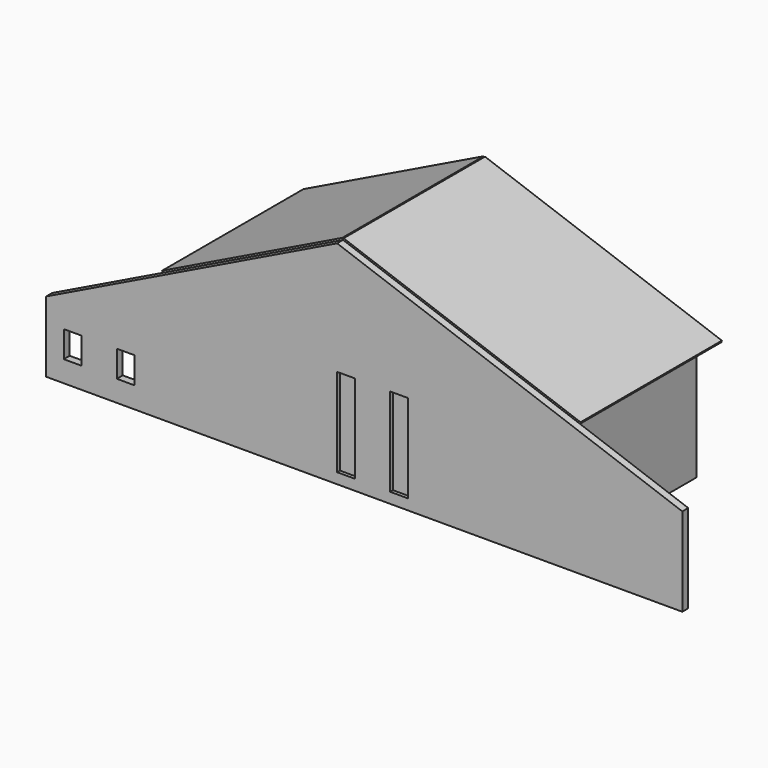
from build123d import *

# Parameters (mm, degrees)
F0_W     = 500
F0_H     = 750
F1_DEPTH = 210
F2_W     = 500
F2_H     = 2500
F3_DEPTH = 100
F4_W     = 210
F4_H     = 3851.0160439499
F5_DEPTH = 5000
F7_DEPTH = 50
F9_DEPTH = 50


with BuildPart() as f1:
    # F0 (on Front) → F1 (new body)
    with BuildSketch(Plane.XZ):
        Polygon((-8233.5140852987, 0), (0, 0), (9766.4859147013, 0), (9766.4859147013, 2500), (0, 6000), (-5203.5374641418, 3472.0211029053), (-8233.5140852987, 2000), align=None)
        with Locations((-7483.5140852987, 975)):
            Rectangle(F0_W, F0_H, mode=Mode.SUBTRACT)
        with Locations((-5983.5140852987, 975)):
            Rectangle(F0_W, F0_H, mode=Mode.SUBTRACT)
    extrude(amount=F1_DEPTH)

    # F2 (on face) → F3 (cut)
    with BuildSketch(Plane.XZ.offset(210)):
        with Locations((250, 1550)):
            Rectangle(F2_W, F2_H)
        with Locations((1750, 1550)):
            Rectangle(F2_W, F2_H)
    extrude(amount=-F3_DEPTH, mode=Mode.SUBTRACT)

    # F4 (on face) → F5 (join)
    with BuildSketch(Plane(origin=(0, 0, 0), x_dir=(-1, 0, 0), z_dir=(0, 1, 0))):
        with Locations((4318.4224178049, 1925.5080219749)):
            Rectangle(F4_W, F4_H)
        with Locations((-5891.5775821951, 1925.5080219749)):
            Rectangle(F4_W, F4_H)
    extrude(amount=F5_DEPTH)


with BuildPart() as f7:
    # F6 (on face) → F7 (new body)
    with BuildSketch(Plane(origin=(-2358.3071897462, 0, 4854.2888660592), x_dir=(0.8994710359, 0, 0.4369803836), z_dir=(-0.4369803836, 0, 0.8994710359))):
        Polygon((-2295.9218760104, 0), (2621.8823016384, 0), (2621.8823016384, 5000), (-3045.9218760104, 5000), (-3045.9218760104, 0), align=None)
    extrude(amount=F7_DEPTH)


with BuildPart() as f9:
    # F8 (on face) → F9 (new body)
    with BuildSketch(Plane(origin=(1905.4920686735, 0, 5317.1318426499), x_dir=(0.9413759294, 0, -0.3373593923), z_dir=(0.3373593923, 0, 0.9413759294))):
        Polygon((-2024.1563536694, 5000), (-2024.1563536694, 0), (4345.857362379, 0), (5095.857362379, 0), (5095.857362379, 5000), align=None)
    extrude(amount=F9_DEPTH)


solid = Compound([f1.part, f7.part, f9.part])
